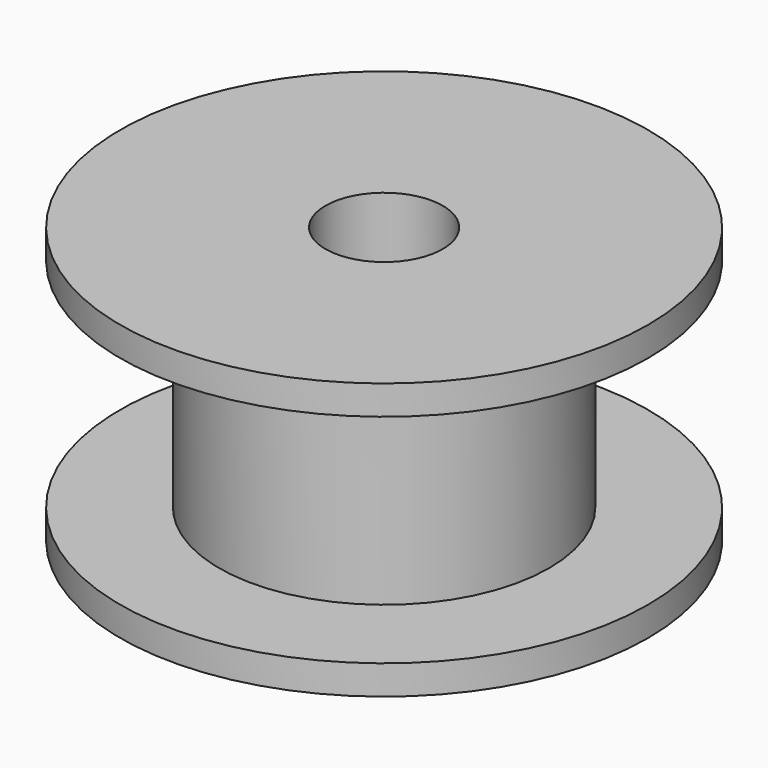
from build123d import *

# Parameters (mm, degrees)
F0_R     = 9
F1_DEPTH = 1
F2_R     = 5.625
F3_DEPTH = 7.4
F4_R     = 9
F5_DEPTH = 1
F7_D     = 4


with BuildPart() as f1:
    # F0 (on Top) → F1 (new body)
    with BuildSketch(Plane.XY):
        Circle(F0_R)
    extrude(amount=F1_DEPTH)

    # F2 (on face) → F3 (join)
    with BuildSketch(Plane.XY.offset(1)):
        Circle(F2_R)
    extrude(amount=F3_DEPTH)

    # F4 (on face) → F5 (join)
    with BuildSketch(Plane.XY.offset(8.4)):
        Circle(F4_R)
    extrude(amount=F5_DEPTH)

    # F7 (through all)
    with Locations(Plane.XY.offset(9.4)):
        with Locations((0, 0)):
            Hole(F7_D / 2)


solid = f1.part
